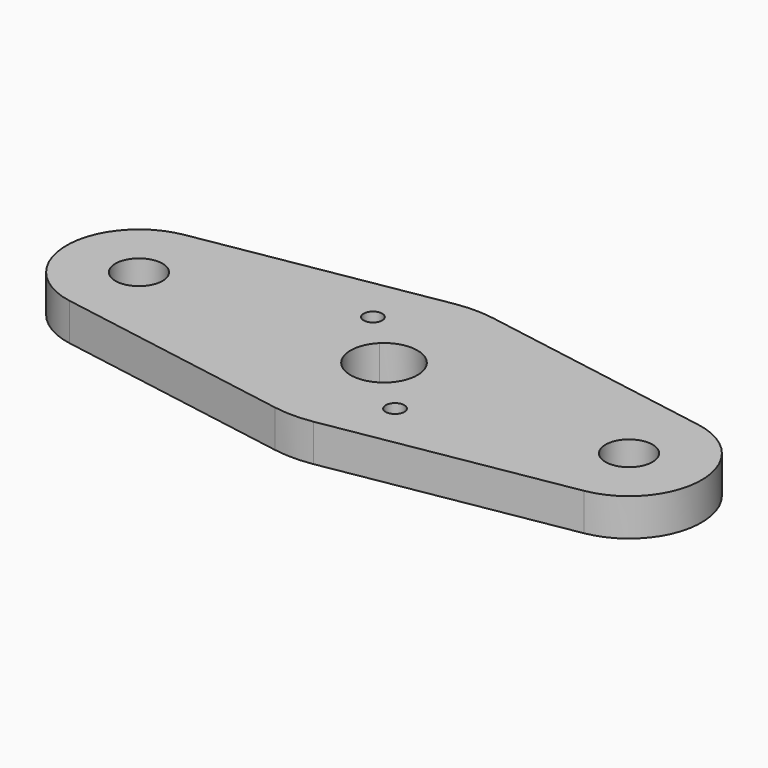
from build123d import *

# Parameters (mm, degrees)
F0_R     = 0.9017
F0_R_2   = 2.286
F1_DEPTH = 3.6322


with BuildPart() as f1:
    # F0 (on Top) → F1 (new body)
    with BuildSketch(Plane.XY):
        with BuildLine():
            Line((25.000407, 6.947678), (1.864265, 10.903473))
            ThreePointArc((1.864265, 10.903473), (0, 11.0617), (-1.864265, 10.903473))
            Line((-1.864265, 10.903473), (-25.000407, 6.947678))
            ThreePointArc((-25.000407, 6.947678), (-30.861, 0), (-25.000407, -6.947678))
            Line((-25.000407, -6.947678), (-1.864265, -10.903473))
            ThreePointArc((-1.864265, -10.903473), (0, -11.0617), (1.864265, -10.903473))
            Line((1.864265, -10.903473), (25.000407, -6.947678))
            ThreePointArc((25.000407, -6.947678), (30.861, 0), (25.000407, 6.947678))
        make_face()
        with Locations((5.352233, -5.352233)):
            Circle(F0_R, mode=Mode.SUBTRACT)
        with Locations((-23.8125, 0)):
            Circle(F0_R_2, mode=Mode.SUBTRACT)
        with BuildLine():
            ThreePointArc((-4.450533, 5.352233), (-4.51917, 5.007167), (-4.714634, 4.714634))
            ThreePointArc((-4.714634, 4.714634), (-6.185295, 5.697298), (-4.450533, 5.352233))
        make_face(mode=Mode.SUBTRACT)
        with BuildLine():
            ThreePointArc((-2.298946, 2.298946), (1.24418, 3.003717), (3.2512, 0))
            ThreePointArc((3.2512, 0), (-1.24418, -3.003717), (-2.298946, 2.298946))
        make_face(mode=Mode.SUBTRACT)
        with Locations((23.8125, 0)):
            Circle(F0_R_2, mode=Mode.SUBTRACT)
    extrude(amount=F1_DEPTH)


solid = f1.part
